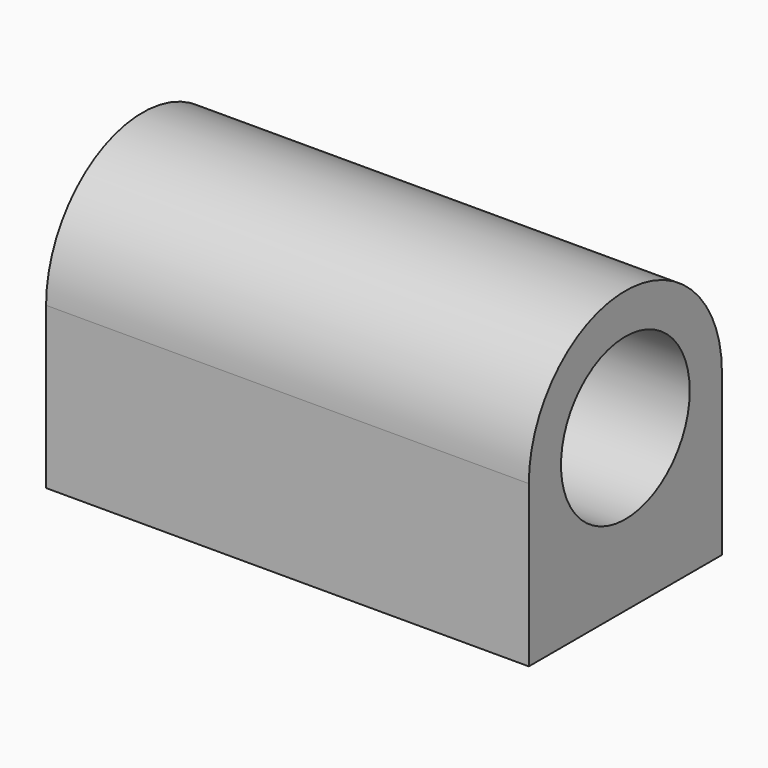
from build123d import *

# Parameters (mm, degrees)
F0_R     = 0.5
F1_DEPTH = 3
F3_D     = 0.13
F3_DEPTH = 0.5
F3_TIP   = 0.0390559402
F4_D     = 0.13
F4_DEPTH = 0.5
F4_TIP   = 0.0390559402


with BuildPart() as f1:
    # F0 (on Right) → F1 (new body)
    with BuildSketch(Plane.YZ):
        with BuildLine():
            Line((0.75, -1), (0.75, 0))
            ThreePointArc((0.75, 0), (0, 0.75), (-0.75, 0))
            Line((-0.75, 0), (-0.75, -1))
            Line((-0.75, -1), (0.75, -1))
        make_face()
        Circle(F0_R, mode=Mode.SUBTRACT)
    extrude(amount=F1_DEPTH)

    # F3
    with Locations(Plane(origin=(0, 0, -1), x_dir=(1, 0, 0), z_dir=(0, 0, -1))):
        with Locations((0.25, 0.5)):
            Hole(F3_D / 2, depth=F3_DEPTH)
            with Locations((0, 0, -(F3_DEPTH + F3_TIP / 2))):  # 118° drill point
                Cone(0, F3_D / 2, F3_TIP, mode=Mode.SUBTRACT)

    # F4
    with Locations(Plane(origin=(0, 0, -1), x_dir=(1, 0, 0), z_dir=(0, 0, -1))):
        with Locations((2.75, 0.5), (2.75, -0.5), (0.25, -0.5)):
            Hole(F4_D / 2, depth=F4_DEPTH)
            with Locations((0, 0, -(F4_DEPTH + F4_TIP / 2))):  # 118° drill point
                Cone(0, F4_D / 2, F4_TIP, mode=Mode.SUBTRACT)


solid = f1.part
